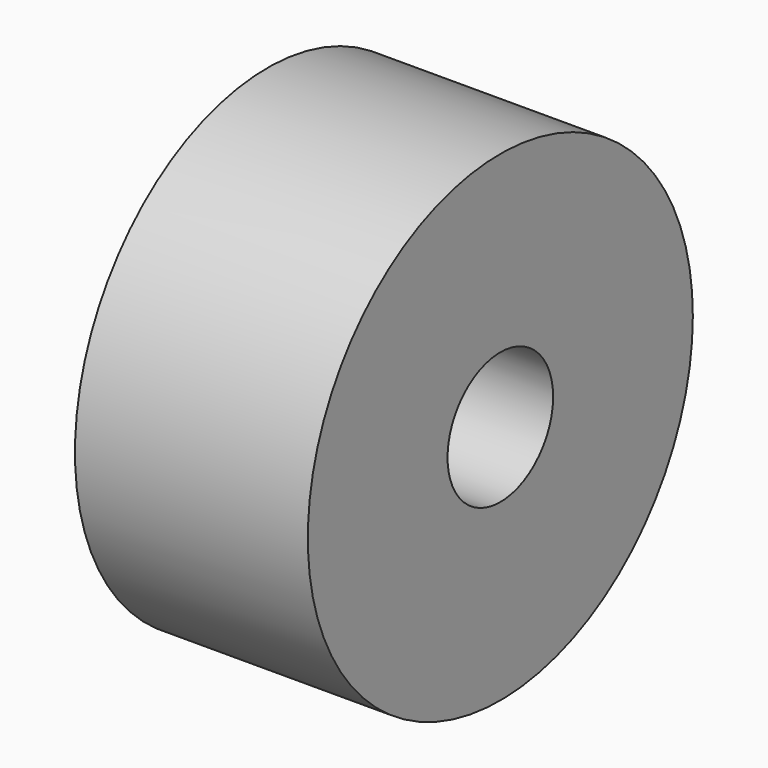
from build123d import *

# Parameters (mm, degrees)
F0_R     = 31
F1_DEPTH = 30
F2_R     = 8.5
F3_DEPTH = 30.001


with BuildPart() as f1:
    # F0 (on Right) → F1 (new body)
    with BuildSketch(Plane.YZ):
        Circle(F0_R)
    extrude(amount=F1_DEPTH)

    # F2 (on face) → F3 (cut, through all)
    with BuildSketch(Plane.YZ.offset(30)):
        Circle(F2_R)
    extrude(amount=-F3_DEPTH, mode=Mode.SUBTRACT)


solid = f1.part
